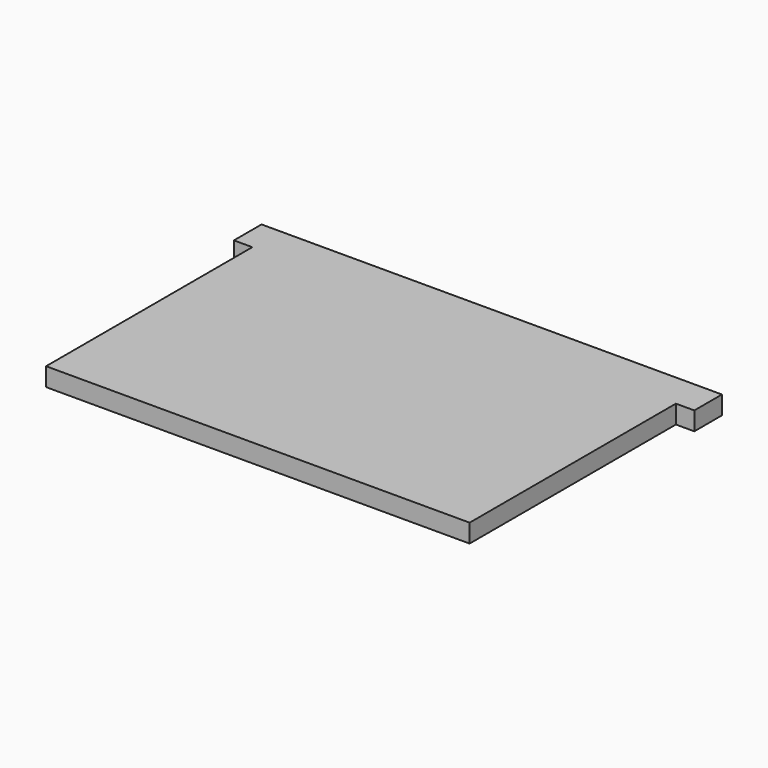
from build123d import *

# Parameters (mm, degrees)
F0_W     = 635
F0_H     = 403.225
F1_DEPTH = 25.4
F2_W     = 25.4
F2_H     = 355.6
F3_DEPTH = 25.4


with BuildPart() as f1:
    # F0 (on Top) → F1 (new body)
    with BuildSketch(Plane.XY):
        with Locations((-317.5, 201.6125)):
            Rectangle(F0_W, F0_H)
    extrude(amount=F1_DEPTH)

    # F2 (on face) → F3 (cut, through all)
    with BuildSketch(Plane(origin=(0, 0, 0), x_dir=(1, 0, 0), z_dir=(0, 0, -1))):
        with Locations((-12.7, -177.8)):
            Rectangle(F2_W, F2_H)
        with Locations((-622.3, -177.8)):
            Rectangle(F2_W, F2_H)
    extrude(amount=-F3_DEPTH, mode=Mode.SUBTRACT)


solid = f1.part
